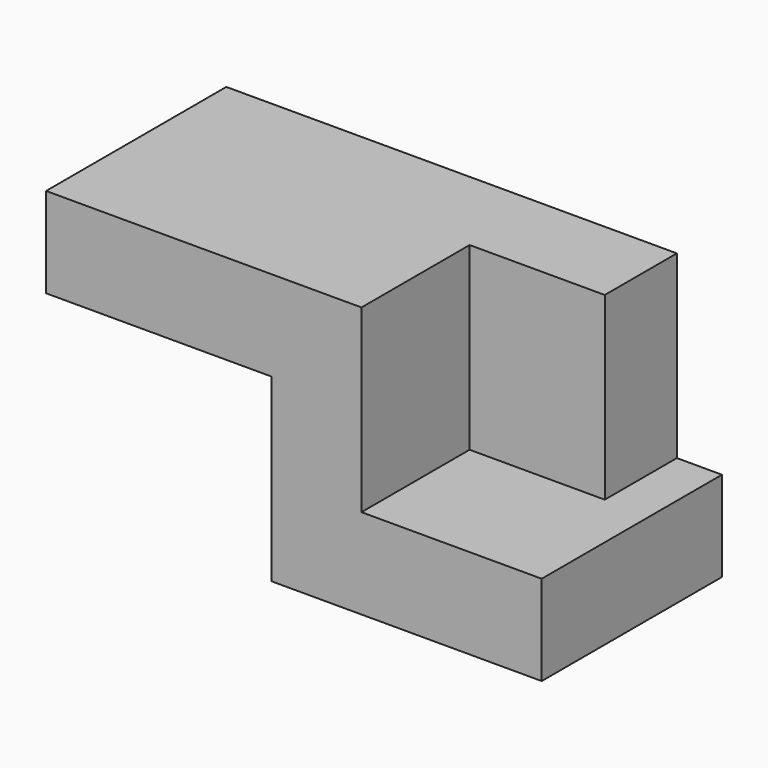
from build123d import *

# Parameters (mm, degrees)
F0_W     = 76.2
F0_H     = 63.5
F1_DEPTH = 25.4
F3_DEPTH = 50.8
F4_W     = 63.5
F4_H     = 25.4
F5_DEPTH = 63.5


with BuildPart() as f1:
    # F0 (on Top) → F1 (new body)
    with BuildSketch(Plane.XY):
        with Locations((0.813381, -8.013141)):
            Rectangle(F0_W, F0_H)
    extrude(amount=F1_DEPTH)

    # F2 (on face) → F3 (join)
    with BuildSketch(Plane.XY.offset(25.4)):
        Polygon((-37.286619, 23.736859), (-37.286619, -39.763141), (-11.886619, -39.763141), (-11.886619, -1.663141), (26.213381, -1.663141), (26.213381, 23.736859), align=None)
    extrude(amount=F3_DEPTH)

    # F4 (on face) → F5 (join)
    with BuildSketch(Plane(origin=(-37.286619, 0, 0), x_dir=(0, -1, 0), z_dir=(-1, 0, 0))):
        with Locations((8.013141, 63.5)):
            Rectangle(F4_W, F4_H)
    extrude(amount=F5_DEPTH)


solid = f1.part
